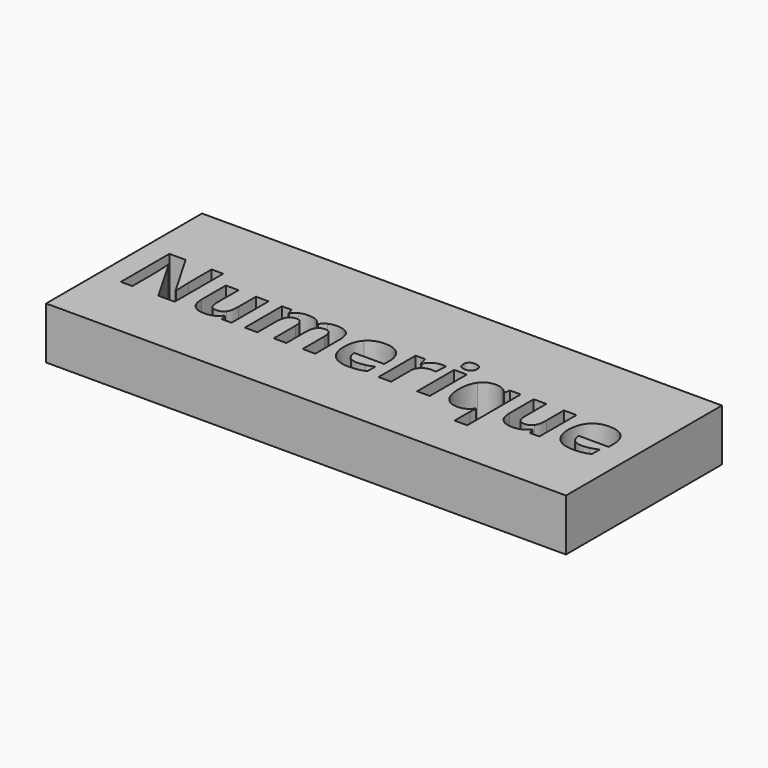
from build123d import *

# Parameters (mm, degrees)
F0_W     = 80
F0_H     = 30
F0_W_2   = 1.9479015767
F0_H_2   = 7.1416244585
F1_DEPTH = 8


with BuildPart() as f1:
    # F0 (on Top) → F1 (new body)
    with BuildSketch(Plane.XY):
        with Locations((-7.8488383442, -5.141090728)):
            Rectangle(F0_W, F0_H)
        with BuildLine():
            Line((-36.0637727378, -0.8022005875), (-36.0637727378, -10.141090728))
            Line((-36.0637727378, -10.141090728), (-38.5798974397, -10.141090728))
            Line((-38.5798974397, -10.141090728), (-42.6433059753, -3.0771370564))
            Line((-42.6433059753, -3.0771370564), (-42.7005370814, -3.0771370564))
            add(Edge.make_bspline(
                [(-42.7005370814, -3.0771370564), (-42.5778989969, -4.9473678462), (-42.5778989969, -5.746559364)],
                knots=[0, 0, 0, 1, 1, 1], degree=2))
            Line((-42.5778989969, -5.746559364), (-42.5778989969, -10.141090728))
            Line((-42.5778989969, -10.141090728), (-44.3479753509, -10.141090728))
            Line((-44.3479753509, -10.141090728), (-44.3479753509, -0.8022005875))
            Line((-44.3479753509, -0.8022005875), (-41.8502463617, -0.8022005875))
            Line((-41.8502463617, -0.8022005875), (-37.7950136984, -7.7966593445))
            Line((-37.7950136984, -7.7966593445), (-37.7500464007, -7.7966593445))
            add(Edge.make_bspline(
                [(-37.7500464007, -7.7966593445), (-37.8461129003, -5.9754837886), (-37.8461129003, -5.2233035365)],
                knots=[0, 0, 0, 1, 1, 1], degree=2))
            Line((-37.8461129003, -5.2233035365), (-37.8461129003, -0.8022005875))
            Line((-37.8461129003, -0.8022005875), (-36.0637727378, -0.8022005875))
        make_face(mode=Mode.SUBTRACT)
        with BuildLine():
            Line((-27.3135454033, -10.141090728), (-28.807686067, -10.141090728))
            Line((-28.807686067, -10.141090728), (-29.0693139808, -9.2274369979))
            Line((-29.0693139808, -9.2274369979), (-29.1715123846, -9.2274369979))
            add(Edge.make_bspline(
                [(-29.1715123846, -9.2274369979), (-29.4842395003, -9.7261652085), (-30.0596165137, -9.9980129627)],
                knots=[0, 0, 0, 1, 1, 1], degree=2))
            add(Edge.make_bspline(
                [(-30.0596165137, -9.9980129627), (-30.6349935272, -10.2698607168), (-31.3687780666, -10.2698607168)],
                knots=[0, 0, 0, 1, 1, 1], degree=2))
            add(Edge.make_bspline(
                [(-31.3687780666, -10.2698607168), (-32.6278624016, -10.2698607168), (-33.2666024254, -9.5953512516)],
                knots=[0, 0, 0, 1, 1, 1], degree=2))
            add(Edge.make_bspline(
                [(-33.2666024254, -9.5953512516), (-33.9053424492, -8.9208417865), (-33.9053424492, -7.6556255472)],
                knots=[0, 0, 0, 1, 1, 1], degree=2))
            Line((-33.9053424492, -7.6556255472), (-33.9053424492, -2.9994662695))
            Line((-33.9053424492, -2.9994662695), (-31.9574408726, -2.9994662695))
            Line((-31.9574408726, -2.9994662695), (-31.9574408726, -7.1712051132))
            add(Edge.make_bspline(
                [(-31.9574408726, -7.1712051132), (-31.9574408726, -7.943825046), (-31.6825271663, -8.3301350124)],
                knots=[0, 0, 0, 1, 1, 1], degree=2))
            add(Edge.make_bspline(
                [(-31.6825271663, -8.3301350124), (-31.40761346, -8.7164449788), (-30.8066868456, -8.7164449788)],
                knots=[0, 0, 0, 1, 1, 1], degree=2))
            add(Edge.make_bspline(
                [(-30.8066868456, -8.7164449788), (-29.9890996151, -8.7164449788), (-29.6252732975, -8.1707055025)],
                knots=[0, 0, 0, 1, 1, 1], degree=2))
            add(Edge.make_bspline(
                [(-29.6252732975, -8.1707055025), (-29.2614469799, -7.6249660261), (-29.2614469799, -6.3597497869)],
                knots=[0, 0, 0, 1, 1, 1], degree=2))
            Line((-29.2614469799, -6.3597497869), (-29.2614469799, -2.9994662695))
            Line((-29.2614469799, -2.9994662695), (-27.3135454033, -2.9994662695))
            Line((-27.3135454033, -2.9994662695), (-27.3135454033, -10.141090728))
        make_face(mode=Mode.SUBTRACT)
        with BuildLine():
            Line((-18.8760451844, -6.5580146903), (-18.8760451844, -10.141090728))
            Line((-18.8760451844, -10.141090728), (-20.8239467611, -10.141090728))
            Line((-20.8239467611, -10.141090728), (-20.8239467611, -5.9693518843))
            add(Edge.make_bspline(
                [(-20.8239467611, -5.9693518843), (-20.8239467611, -5.1967319515), (-21.0825087227, -4.8104219851)],
                knots=[0, 0, 0, 1, 1, 1], degree=2))
            add(Edge.make_bspline(
                [(-21.0825087227, -4.8104219851), (-21.3410706844, -4.4241120187), (-21.8970300011, -4.4241120187)],
                knots=[0, 0, 0, 1, 1, 1], degree=2))
            add(Edge.make_bspline(
                [(-21.8970300011, -4.4241120187), (-22.645122317, -4.4241120187), (-22.9833990337, -4.9739394312)],
                knots=[0, 0, 0, 1, 1, 1], degree=2))
            add(Edge.make_bspline(
                [(-22.9833990337, -4.9739394312), (-23.3216757503, -5.5237668437), (-23.3216757503, -6.7808072106)],
                knots=[0, 0, 0, 1, 1, 1], degree=2))
            Line((-23.3216757503, -6.7808072106), (-23.3216757503, -10.141090728))
            Line((-23.3216757503, -10.141090728), (-25.269577327, -10.141090728))
            Line((-25.269577327, -10.141090728), (-25.269577327, -2.9994662695))
            Line((-25.269577327, -2.9994662695), (-23.7815685675, -2.9994662695))
            Line((-23.7815685675, -2.9994662695), (-23.5199406537, -3.9131199996))
            Line((-23.5199406537, -3.9131199996), (-23.4116103456, -3.9131199996))
            add(Edge.make_bspline(
                [(-23.4116103456, -3.9131199996), (-23.1234108469, -3.4205236932), (-22.5807373226, -3.1435660189)],
                knots=[0, 0, 0, 1, 1, 1], degree=2))
            add(Edge.make_bspline(
                [(-22.5807373226, -3.1435660189), (-22.0380637984, -2.8666083445), (-21.3349387802, -2.8666083445)],
                knots=[0, 0, 0, 1, 1, 1], degree=2))
            add(Edge.make_bspline(
                [(-21.3349387802, -2.8666083445), (-19.7324678084, -2.8666083445), (-19.1622007151, -3.9131199996)],
                knots=[0, 0, 0, 1, 1, 1], degree=2))
            Line((-19.1622007151, -3.9131199996), (-18.9905073967, -3.9131199996))
            add(Edge.make_bspline(
                [(-18.9905073967, -3.9131199996), (-18.7023078979, -3.414391789), (-18.1443046131, -3.1405000668)],
                knots=[0, 0, 0, 1, 1, 1], degree=2))
            add(Edge.make_bspline(
                [(-18.1443046131, -3.1405000668), (-17.5863013283, -2.8666083445), (-16.88317631, -2.8666083445)],
                knots=[0, 0, 0, 1, 1, 1], degree=2))
            add(Edge.make_bspline(
                [(-16.88317631, -2.8666083445), (-15.6690592727, -2.8666083445), (-15.0466709935, -3.4889966238)],
                knots=[0, 0, 0, 1, 1, 1], degree=2))
            add(Edge.make_bspline(
                [(-15.0466709935, -3.4889966238), (-14.4242827143, -4.111384903), (-14.4242827143, -5.4849314502)],
                knots=[0, 0, 0, 1, 1, 1], degree=2))
            Line((-14.4242827143, -5.4849314502), (-14.4242827143, -10.141090728))
            Line((-14.4242827143, -10.141090728), (-16.3783161952, -10.141090728))
            Line((-16.3783161952, -10.141090728), (-16.3783161952, -5.9693518843))
            add(Edge.make_bspline(
                [(-16.3783161952, -5.9693518843), (-16.3783161952, -5.1967319515), (-16.6368781568, -4.8104219851)],
                knots=[0, 0, 0, 1, 1, 1], degree=2))
            add(Edge.make_bspline(
                [(-16.6368781568, -4.8104219851), (-16.8954401185, -4.4241120187), (-17.4513994352, -4.4241120187)],
                knots=[0, 0, 0, 1, 1, 1], degree=2))
            add(Edge.make_bspline(
                [(-17.4513994352, -4.4241120187), (-18.1667882619, -4.4241120187), (-18.5214167232, -4.9351040377)],
                knots=[0, 0, 0, 1, 1, 1], degree=2))
            add(Edge.make_bspline(
                [(-18.5214167232, -4.9351040377), (-18.8760451844, -5.4460960568), (-18.8760451844, -6.5580146903)],
                knots=[0, 0, 0, 1, 1, 1], degree=2))
        make_face(mode=Mode.SUBTRACT)
        with BuildLine():
            add(Edge.make_bspline(
                [(-7.7752545621, -10.1451786642), (-8.3557414958, -10.2698607168), (-9.1937684071, -10.2698607168)],
                knots=[0, 0, 0, 1, 1, 1], degree=2))
            add(Edge.make_bspline(
                [(-9.1937684071, -10.2698607168), (-10.9168334954, -10.2698607168), (-11.8877183316, -9.3173715933)],
                knots=[0, 0, 0, 1, 1, 1], degree=2))
            add(Edge.make_bspline(
                [(-11.8877183316, -9.3173715933), (-12.8586031678, -8.3648824697), (-12.8586031678, -6.6213777007)],
                knots=[0, 0, 0, 1, 1, 1], degree=2))
            add(Edge.make_bspline(
                [(-12.8586031678, -6.6213777007), (-12.8586031678, -4.8267737297), (-11.9613011824, -3.8466910371)],
                knots=[0, 0, 0, 1, 1, 1], degree=2))
            add(Edge.make_bspline(
                [(-11.9613011824, -3.8466910371), (-11.0639991969, -2.8666083445), (-9.4799239378, -2.8666083445)],
                knots=[0, 0, 0, 1, 1, 1], degree=2))
            add(Edge.make_bspline(
                [(-9.4799239378, -2.8666083445), (-7.9673875613, -2.8666083445), (-7.1242507299, -3.7281408887)],
                knots=[0, 0, 0, 1, 1, 1], degree=2))
            add(Edge.make_bspline(
                [(-7.1242507299, -3.7281408887), (-6.2811138984, -4.5896734328), (-6.2811138984, -6.1103856816)],
                knots=[0, 0, 0, 1, 1, 1], degree=2))
            Line((-6.2811138984, -6.1103856816), (-6.2811138984, -7.0567429009))
            Line((-6.2811138984, -7.0567429009), (-10.8861739742, -7.0567429009))
            add(Edge.make_bspline(
                [(-10.8861739742, -7.0567429009), (-10.853470485, -7.8865939399), (-10.3935776679, -8.3526186613)],
                knots=[0, 0, 0, 1, 1, 1], degree=2))
            add(Edge.make_bspline(
                [(-10.3935776679, -8.3526186613), (-9.9336848507, -8.8186433826), (-9.1038338117, -8.8186433826)],
                knots=[0, 0, 0, 1, 1, 1], degree=2))
            add(Edge.make_bspline(
                [(-9.1038338117, -8.8186433826), (-8.4579398996, -8.8186433826), (-7.8835848702, -8.6847634737)],
                knots=[0, 0, 0, 1, 1, 1], degree=2))
            add(Edge.make_bspline(
                [(-7.8835848702, -8.6847634737), (-7.3092298408, -8.5508835647), (-6.6837756094, -8.2565521617)],
                knots=[0, 0, 0, 1, 1, 1], degree=2))
            Line((-6.6837756094, -8.2565521617), (-6.6837756094, -9.765000602))
            add(Edge.make_bspline(
                [(-6.6837756094, -9.765000602), (-7.1947676285, -10.0204966115), (-7.7752545621, -10.1451786642)],
                knots=[0, 0, 0, 1, 1, 1], degree=2))
        make_face(mode=Mode.SUBTRACT)
        with BuildLine():
            add(Edge.make_bspline(
                [(-1.9407476884, -3.2335006142), (-1.3755905153, -2.8666083445), (-0.7113008905, -2.8666083445)],
                knots=[0, 0, 0, 1, 1, 1], degree=2))
            add(Edge.make_bspline(
                [(-0.7113008905, -2.8666083445), (-0.3147710837, -2.8666083445), (-0.05314317, -2.9238394507)],
                knots=[0, 0, 0, 1, 1, 1], degree=2))
            Line((-0.05314317, -2.9238394507), (-0.2003088715, -4.7491029428))
            add(Edge.make_bspline(
                [(-0.2003088715, -4.7491029428), (-0.4374091683, -4.6857399324), (-0.7746639009, -4.6857399324)],
                knots=[0, 0, 0, 1, 1, 1], degree=2))
            add(Edge.make_bspline(
                [(-0.7746639009, -4.6857399324), (-1.7067133437, -4.6857399324), (-2.2279252031, -5.1650504463)],
                knots=[0, 0, 0, 1, 1, 1], degree=2))
            add(Edge.make_bspline(
                [(-2.2279252031, -5.1650504463), (-2.7491370626, -5.6443609602), (-2.7491370626, -6.5069154884)],
                knots=[0, 0, 0, 1, 1, 1], degree=2))
            Line((-2.7491370626, -6.5069154884), (-2.7491370626, -10.141090728))
            Line((-2.7491370626, -10.141090728), (-4.6970386393, -10.141090728))
            Line((-4.6970386393, -10.141090728), (-4.6970386393, -2.9994662695))
            Line((-4.6970386393, -2.9994662695), (-3.2212936882, -2.9994662695))
            Line((-3.2212936882, -2.9994662695), (-2.9330941895, -4.2013194983))
            Line((-2.9330941895, -4.2013194983), (-2.8390716579, -4.2013194983))
            add(Edge.make_bspline(
                [(-2.8390716579, -4.2013194983), (-2.5059048615, -3.6003928839), (-1.9407476884, -3.2335006142)],
                knots=[0, 0, 0, 1, 1, 1], degree=2))
        make_face(mode=Mode.SUBTRACT)
        with BuildLine():
            add(Edge.make_bspline(
                [(8.6909522603, -10.0010789148), (8.173828337, -10.2698607168), (7.4952309357, -10.2698607168)],
                knots=[0, 0, 0, 1, 1, 1], degree=2))
            add(Edge.make_bspline(
                [(7.4952309357, -10.2698607168), (6.2320586646, -10.2698607168), (5.5166698379, -9.2948879444)],
                knots=[0, 0, 0, 1, 1, 1], degree=2))
            add(Edge.make_bspline(
                [(5.5166698379, -9.2948879444), (4.8012810112, -8.319915172), (4.8012810112, -6.5825423072)],
                knots=[0, 0, 0, 1, 1, 1], degree=2))
            add(Edge.make_bspline(
                [(4.8012810112, -6.5825423072), (4.8012810112, -4.8329056339), (5.5319995984, -3.8497569892)],
                knots=[0, 0, 0, 1, 1, 1], degree=2))
            add(Edge.make_bspline(
                [(5.5319995984, -3.8497569892), (6.2627181857, -2.8666083445), (7.5340663291, -2.8666083445)],
                knots=[0, 0, 0, 1, 1, 1], degree=2))
            add(Edge.make_bspline(
                [(7.5340663291, -2.8666083445), (8.2106197624, -2.8666083445), (8.7154798772, -3.1221043541)],
                knots=[0, 0, 0, 1, 1, 1], degree=2))
            add(Edge.make_bspline(
                [(8.7154798772, -3.1221043541), (9.2203399921, -3.3776003636), (9.6046059904, -3.9131199996)],
                knots=[0, 0, 0, 1, 1, 1], degree=2))
            Line((9.6046059904, -3.9131199996), (9.6557051923, -3.9131199996))
            Line((9.6557051923, -3.9131199996), (9.8273985107, -2.9994662695))
            Line((9.8273985107, -2.9994662695), (11.4748367802, -2.9994662695))
            Line((11.4748367802, -2.9994662695), (11.4748367802, -13.2847136293))
            Line((11.4748367802, -13.2847136293), (9.5208032993, -13.2847136293))
            Line((9.5208032993, -13.2847136293), (9.5208032993, -10.2882564295))
            add(Edge.make_bspline(
                [(9.5208032993, -10.2882564295), (9.5208032993, -9.8978585269), (9.6046059904, -9.2151731894)],
                knots=[0, 0, 0, 1, 1, 1], degree=2))
            Line((9.6046059904, -9.2151731894), (9.5208032993, -9.2151731894))
            add(Edge.make_bspline(
                [(9.5208032993, -9.2151731894), (9.2080761836, -9.7322971127), (8.6909522603, -10.0010789148)],
                knots=[0, 0, 0, 1, 1, 1], degree=2))
        make_face(mode=Mode.SUBTRACT)
        with Locations((2.2166833787, -6.5702784987)):
            Rectangle(F0_W_2, F0_H_2, mode=Mode.SUBTRACT)
        with BuildLine():
            Line((20.0656346048, -10.141090728), (18.571493941, -10.141090728))
            Line((18.571493941, -10.141090728), (18.3098660273, -9.2274369979))
            Line((18.3098660273, -9.2274369979), (18.2076676235, -9.2274369979))
            add(Edge.make_bspline(
                [(18.2076676235, -9.2274369979), (17.8949405078, -9.7261652085), (17.3195634943, -9.9980129627)],
                knots=[0, 0, 0, 1, 1, 1], degree=2))
            add(Edge.make_bspline(
                [(17.3195634943, -9.9980129627), (16.7441864808, -10.2698607168), (16.0104019415, -10.2698607168)],
                knots=[0, 0, 0, 1, 1, 1], degree=2))
            add(Edge.make_bspline(
                [(16.0104019415, -10.2698607168), (14.7513176065, -10.2698607168), (14.1125775826, -9.5953512516)],
                knots=[0, 0, 0, 1, 1, 1], degree=2))
            add(Edge.make_bspline(
                [(14.1125775826, -9.5953512516), (13.4738375588, -8.9208417865), (13.4738375588, -7.6556255472)],
                knots=[0, 0, 0, 1, 1, 1], degree=2))
            Line((13.4738375588, -7.6556255472), (13.4738375588, -2.9994662695))
            Line((13.4738375588, -2.9994662695), (15.4217391355, -2.9994662695))
            Line((15.4217391355, -2.9994662695), (15.4217391355, -7.1712051132))
            add(Edge.make_bspline(
                [(15.4217391355, -7.1712051132), (15.4217391355, -7.943825046), (15.6966528417, -8.3301350124)],
                knots=[0, 0, 0, 1, 1, 1], degree=2))
            add(Edge.make_bspline(
                [(15.6966528417, -8.3301350124), (15.971566548, -8.7164449788), (16.5724931624, -8.7164449788)],
                knots=[0, 0, 0, 1, 1, 1], degree=2))
            add(Edge.make_bspline(
                [(16.5724931624, -8.7164449788), (17.3900803929, -8.7164449788), (17.7539067105, -8.1707055025)],
                knots=[0, 0, 0, 1, 1, 1], degree=2))
            add(Edge.make_bspline(
                [(17.7539067105, -8.1707055025), (18.1177330281, -7.6249660261), (18.1177330281, -6.3597497869)],
                knots=[0, 0, 0, 1, 1, 1], degree=2))
            Line((18.1177330281, -6.3597497869), (18.1177330281, -2.9994662695))
            Line((18.1177330281, -2.9994662695), (20.0656346048, -2.9994662695))
            Line((20.0656346048, -2.9994662695), (20.0656346048, -10.141090728))
        make_face(mode=Mode.SUBTRACT)
        with BuildLine():
            add(Edge.make_bspline(
                [(26.7596300546, -10.1451786642), (26.1791431209, -10.2698607168), (25.3411162097, -10.2698607168)],
                knots=[0, 0, 0, 1, 1, 1], degree=2))
            add(Edge.make_bspline(
                [(25.3411162097, -10.2698607168), (23.6180511214, -10.2698607168), (22.6471662851, -9.3173715933)],
                knots=[0, 0, 0, 1, 1, 1], degree=2))
            add(Edge.make_bspline(
                [(22.6471662851, -9.3173715933), (21.6762814489, -8.3648824697), (21.6762814489, -6.6213777007)],
                knots=[0, 0, 0, 1, 1, 1], degree=2))
            add(Edge.make_bspline(
                [(21.6762814489, -6.6213777007), (21.6762814489, -4.8267737297), (22.5735834344, -3.8466910371)],
                knots=[0, 0, 0, 1, 1, 1], degree=2))
            add(Edge.make_bspline(
                [(22.5735834344, -3.8466910371), (23.4708854199, -2.8666083445), (25.054960679, -2.8666083445)],
                knots=[0, 0, 0, 1, 1, 1], degree=2))
            add(Edge.make_bspline(
                [(25.054960679, -2.8666083445), (26.5674970554, -2.8666083445), (27.4106338869, -3.7281408887)],
                knots=[0, 0, 0, 1, 1, 1], degree=2))
            add(Edge.make_bspline(
                [(27.4106338869, -3.7281408887), (28.2537707183, -4.5896734328), (28.2537707183, -6.1103856816)],
                knots=[0, 0, 0, 1, 1, 1], degree=2))
            Line((28.2537707183, -6.1103856816), (28.2537707183, -7.0567429009))
            Line((28.2537707183, -7.0567429009), (23.6487106425, -7.0567429009))
            add(Edge.make_bspline(
                [(23.6487106425, -7.0567429009), (23.6814141317, -7.8865939399), (24.1413069489, -8.3526186613)],
                knots=[0, 0, 0, 1, 1, 1], degree=2))
            add(Edge.make_bspline(
                [(24.1413069489, -8.3526186613), (24.601199766, -8.8186433826), (25.431050805, -8.8186433826)],
                knots=[0, 0, 0, 1, 1, 1], degree=2))
            add(Edge.make_bspline(
                [(25.431050805, -8.8186433826), (26.0769447171, -8.8186433826), (26.6512997465, -8.6847634737)],
                knots=[0, 0, 0, 1, 1, 1], degree=2))
            add(Edge.make_bspline(
                [(26.6512997465, -8.6847634737), (27.225654776, -8.5508835647), (27.8511090073, -8.2565521617)],
                knots=[0, 0, 0, 1, 1, 1], degree=2))
            Line((27.8511090073, -8.2565521617), (27.8511090073, -9.765000602))
            add(Edge.make_bspline(
                [(27.8511090073, -9.765000602), (27.3401169882, -10.0204966115), (26.7596300546, -10.1451786642)],
                knots=[0, 0, 0, 1, 1, 1], degree=2))
        make_face(mode=Mode.SUBTRACT)
        with BuildLine():
            add(Edge.make_bspline(
                [(2.2197493308, -2.1123841244), (1.1589298992, -2.1123841244), (1.1589298992, -1.1537630966)],
                knots=[0, 0, 0, 1, 1, 1], degree=2))
            add(Edge.make_bspline(
                [(1.1589298992, -1.1537630966), (1.1589298992, -0.2012739731), (2.2197493308, -0.2012739731)],
                knots=[0, 0, 0, 1, 1, 1], degree=2))
            add(Edge.make_bspline(
                [(2.2197493308, -0.2012739731), (3.2805687624, -0.2012739731), (3.2805687624, -1.1537630966)],
                knots=[0, 0, 0, 1, 1, 1], degree=2))
            add(Edge.make_bspline(
                [(3.2805687624, -1.1537630966), (3.2805687624, -1.6075240096), (3.0158748965, -1.859954067)],
                knots=[0, 0, 0, 1, 1, 1], degree=2))
            add(Edge.make_bspline(
                [(3.0158748965, -1.859954067), (2.7511810307, -2.1123841244), (2.2197493308, -2.1123841244)],
                knots=[0, 0, 0, 1, 1, 1], degree=2))
        make_face(mode=Mode.SUBTRACT)
    extrude(amount=F1_DEPTH)


solid = f1.part
